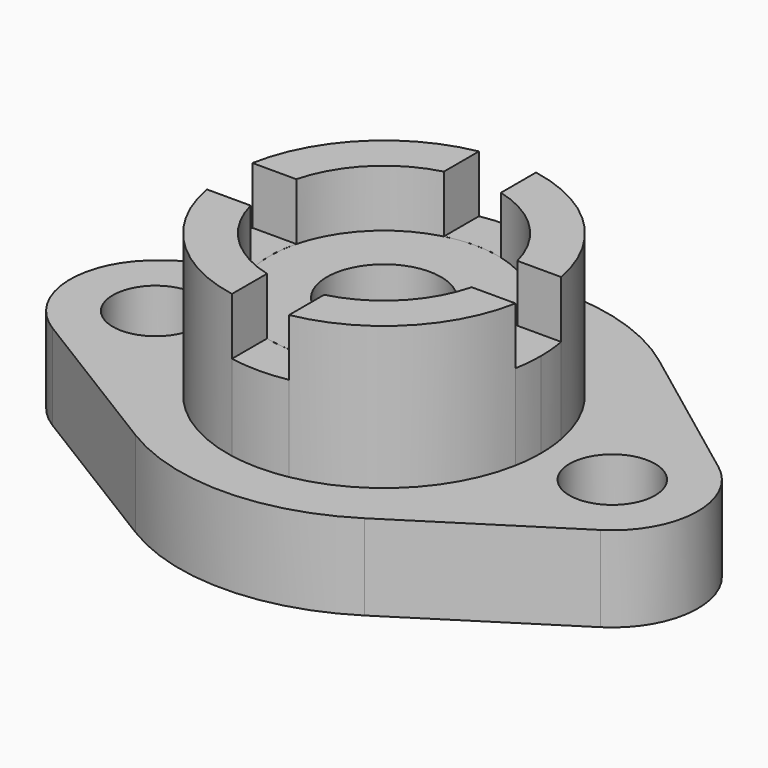
from build123d import *

# Parameters (mm, degrees)
F0_R     = 9.525
F1_DEPTH = 19.05
F0_R_2   = 12.7
F2_DEPTH = 38.1
F3_DEPTH = 50.8
F5_DEPTH = 12.7


with BuildPart() as f1:
    # F0 (on Top) → F1 (new body)
    with BuildSketch(Plane.XY):
        with BuildLine():
            Line((-27.3056187604, 40.5092964203), (-61.9659784878, 15.4344881486))
            ThreePointArc((-61.9659784878, 15.4344881486), (-69.8369205733, -0.7058010235), (-60.7924155452, -16.2189436022))
            Line((-60.7924155452, -16.2189436022), (-24.3704484388, -38.6583477475))
            ThreePointArc((-24.3704484388, -38.6583477475), (0.9955179359, -45.7375661979), (26.2471685991, -38.2608207318))
            Line((26.2471685991, -38.2608207318), (61.0459192334, -16.0600012162))
            ThreePointArc((61.0459192334, -16.0600012162), (69.8362654294, -0.7232554874), (62.2349758625, 15.2362668335))
            Line((62.2349758625, 15.2362668335), (29.2210898111, 40.0135298109))
            ThreePointArc((29.2210898111, 40.0135298109), (1.0392021113, 49.5501346169), (-27.3056187604, 40.5092964203))
        make_face()
        with Locations((-50.8, 0)):
            Circle(F0_R, mode=Mode.SUBTRACT)
        with BuildLine():
            ThreePointArc((34.3428758988, 6.35), (34.7791644937, 3.1883133656), (34.925, 0))
            ThreePointArc((34.925, 0), (34.7791644937, -3.1883133656), (34.3428758988, -6.35))
            ThreePointArc((34.3428758988, -6.35), (24.6957043329, -24.6957043329), (6.35, -34.3428758988))
            ThreePointArc((6.35, -34.3428758988), (0, -34.925), (-6.35, -34.3428758988))
            ThreePointArc((-6.35, -34.3428758988), (-24.6957043329, -24.6957043329), (-34.3428758988, -6.35))
            ThreePointArc((-34.3428758988, -6.35), (-34.925, 0), (-34.3428758988, 6.35))
            ThreePointArc((-34.3428758988, 6.35), (-24.6957043329, 24.6957043329), (-6.35, 34.3428758988))
            ThreePointArc((-6.35, 34.3428758988), (0, 34.925), (6.35, 34.3428758988))
            ThreePointArc((6.35, 34.3428758988), (24.6957043329, 24.6957043329), (34.3428758988, 6.35))
        make_face(mode=Mode.SUBTRACT)
        with Locations((50.8, 0)):
            Circle(F0_R, mode=Mode.SUBTRACT)
    extrude(amount=F1_DEPTH)


with BuildPart() as f2:
    # F0 (on Top) → F2 (new body)
    with BuildSketch(Plane.XY):
        with BuildLine():
            ThreePointArc((25.4, 0), (25.1975542852, 3.2005090291), (24.5934442484, 6.35))
            ThreePointArc((24.5934442484, 6.35), (17.9605122421, 17.9605122421), (6.35, 24.5934442484))
            ThreePointArc((6.35, 24.5934442484), (0, 25.4), (-6.35, 24.5934442484))
            ThreePointArc((-6.35, 24.5934442484), (-17.9605122421, 17.9605122421), (-24.5934442484, 6.35))
            ThreePointArc((-24.5934442484, 6.35), (-25.4, 0), (-24.5934442484, -6.35))
            ThreePointArc((-24.5934442484, -6.35), (-17.9605122421, -17.9605122421), (-6.35, -24.5934442484))
            ThreePointArc((-6.35, -24.5934442484), (0, -25.4), (6.35, -24.5934442484))
            ThreePointArc((6.35, -24.5934442484), (17.9605122421, -17.9605122421), (24.5934442484, -6.35))
            ThreePointArc((24.5934442484, -6.35), (25.1975542852, -3.2005090291), (25.4, 0))
        make_face()
        Circle(F0_R_2, mode=Mode.SUBTRACT)
    extrude(amount=F2_DEPTH)


with BuildPart() as f3:
    # F0 (on Top) → F3 (new body)
    with BuildSketch(Plane.XY):
        with BuildLine():
            Line((30.4367747158, 6.35), (34.3428758988, 6.35))
            ThreePointArc((34.3428758988, 6.35), (24.6957043329, 24.6957043329), (6.35, 34.3428758988))
            Line((6.35, 34.3428758988), (6.35, 30.61629273))
            Line((6.35, 30.61629273), (6.35, 24.5934442484))
            ThreePointArc((6.35, 24.5934442484), (17.9605122421, 17.9605122421), (24.5934442484, 6.35))
            Line((24.5934442484, 6.35), (30.4367747158, 6.35))
        make_face()
        with BuildLine():
            Line((6.35, 30.61629273), (6.35, 34.3428758988))
            ThreePointArc((6.35, 34.3428758988), (0, 34.925), (-6.35, 34.3428758988))
            Line((-6.35, 34.3428758988), (-6.35, 30.61629273))
            Line((-6.35, 30.61629273), (-6.35, 24.5934442484))
            ThreePointArc((-6.35, 24.5934442484), (0, 25.4), (6.35, 24.5934442484))
            Line((6.35, 24.5934442484), (6.35, 30.61629273))
        make_face()
        with BuildLine():
            Line((-6.35, 30.61629273), (-6.35, 34.3428758988))
            ThreePointArc((-6.35, 34.3428758988), (-24.6957043329, 24.6957043329), (-34.3428758988, 6.35))
            Line((-34.3428758988, 6.35), (-30.105708167, 6.35))
            Line((-30.105708167, 6.35), (-24.5934442484, 6.35))
            ThreePointArc((-24.5934442484, 6.35), (-17.9605122421, 17.9605122421), (-6.35, 24.5934442484))
            Line((-6.35, 24.5934442484), (-6.35, 30.61629273))
        make_face()
        with BuildLine():
            Line((-30.105708167, 6.35), (-34.3428758988, 6.35))
            ThreePointArc((-34.3428758988, 6.35), (-34.925, 0), (-34.3428758988, -6.35))
            Line((-34.3428758988, -6.35), (-30.105708167, -6.35))
            Line((-30.105708167, -6.35), (-24.5934442484, -6.35))
            ThreePointArc((-24.5934442484, -6.35), (-25.4, 0), (-24.5934442484, 6.35))
            Line((-24.5934442484, 6.35), (-30.105708167, 6.35))
        make_face()
        with BuildLine():
            ThreePointArc((-34.3428758988, -6.35), (-24.6957043329, -24.6957043329), (-6.35, -34.3428758988))
            Line((-6.35, -34.3428758988), (-6.35, -30.5674783885))
            Line((-6.35, -30.5674783885), (-6.35, -24.5934442484))
            ThreePointArc((-6.35, -24.5934442484), (-17.9605122421, -17.9605122421), (-24.5934442484, -6.35))
            Line((-24.5934442484, -6.35), (-30.105708167, -6.35))
            Line((-30.105708167, -6.35), (-34.3428758988, -6.35))
        make_face()
        with BuildLine():
            ThreePointArc((-6.35, -34.3428758988), (0, -34.925), (6.35, -34.3428758988))
            Line((6.35, -34.3428758988), (6.35, -30.5674783885))
            Line((6.35, -30.5674783885), (6.35, -24.5934442484))
            ThreePointArc((6.35, -24.5934442484), (0, -25.4), (-6.35, -24.5934442484))
            Line((-6.35, -24.5934442484), (-6.35, -30.5674783885))
            Line((-6.35, -30.5674783885), (-6.35, -34.3428758988))
        make_face()
        with BuildLine():
            ThreePointArc((6.35, -34.3428758988), (24.6957043329, -24.6957043329), (34.3428758988, -6.35))
            Line((34.3428758988, -6.35), (30.4367747158, -6.35))
            Line((30.4367747158, -6.35), (24.5934442484, -6.35))
            ThreePointArc((24.5934442484, -6.35), (17.9605122421, -17.9605122421), (6.35, -24.5934442484))
            Line((6.35, -24.5934442484), (6.35, -30.5674783885))
            Line((6.35, -30.5674783885), (6.35, -34.3428758988))
        make_face()
        with BuildLine():
            ThreePointArc((34.3428758988, -6.35), (34.7791644937, -3.1883133656), (34.925, 0))
            ThreePointArc((34.925, 0), (34.7791644937, 3.1883133656), (34.3428758988, 6.35))
            Line((34.3428758988, 6.35), (30.4367747158, 6.35))
            Line((30.4367747158, 6.35), (24.5934442484, 6.35))
            ThreePointArc((24.5934442484, 6.35), (25.1975542852, 3.2005090291), (25.4, 0))
            ThreePointArc((25.4, 0), (25.1975542852, -3.2005090291), (24.5934442484, -6.35))
            Line((24.5934442484, -6.35), (30.4367747158, -6.35))
            Line((30.4367747158, -6.35), (34.3428758988, -6.35))
        make_face()
    extrude(amount=F3_DEPTH)

    # F4 (on face) → F5 (cut)
    with BuildSketch(Plane.XY.offset(50.8)):
        with BuildLine():
            ThreePointArc((-6.35, -34.3428758988), (0, -34.925), (6.35, -34.3428758988))
            Line((6.35, -34.3428758988), (6.35, -24.5934442484))
            ThreePointArc((6.35, -24.5934442484), (0, -25.4), (-6.35, -24.5934442484))
            Line((-6.35, -24.5934442484), (-6.35, -34.3428758988))
        make_face()
        with BuildLine():
            Line((-24.5934442484, 6.35), (-34.3428758988, 6.35))
            ThreePointArc((-34.3428758988, 6.35), (-34.925, 0), (-34.3428758988, -6.35))
            Line((-34.3428758988, -6.35), (-24.5934442484, -6.35))
            ThreePointArc((-24.5934442484, -6.35), (-25.4, 0), (-24.5934442484, 6.35))
        make_face()
        with BuildLine():
            Line((6.35, 24.5934442484), (6.35, 34.3428758988))
            ThreePointArc((6.35, 34.3428758988), (0, 34.925), (-6.35, 34.3428758988))
            Line((-6.35, 34.3428758988), (-6.35, 24.5934442484))
            ThreePointArc((-6.35, 24.5934442484), (0, 25.4), (6.35, 24.5934442484))
        make_face()
        with BuildLine():
            ThreePointArc((34.925, 0), (34.7791644937, 3.1883133656), (34.3428758988, 6.35))
            Line((34.3428758988, 6.35), (24.5934442484, 6.35))
            ThreePointArc((24.5934442484, 6.35), (25.1975542852, 3.2005090291), (25.4, 0))
            ThreePointArc((25.4, 0), (25.1975542852, -3.2005090291), (24.5934442484, -6.35))
            Line((24.5934442484, -6.35), (34.3428758988, -6.35))
            ThreePointArc((34.3428758988, -6.35), (34.7791644937, -3.1883133656), (34.925, 0))
        make_face()
    extrude(amount=-F5_DEPTH, mode=Mode.SUBTRACT)


solid = Compound([f1.part, f2.part, f3.part])
